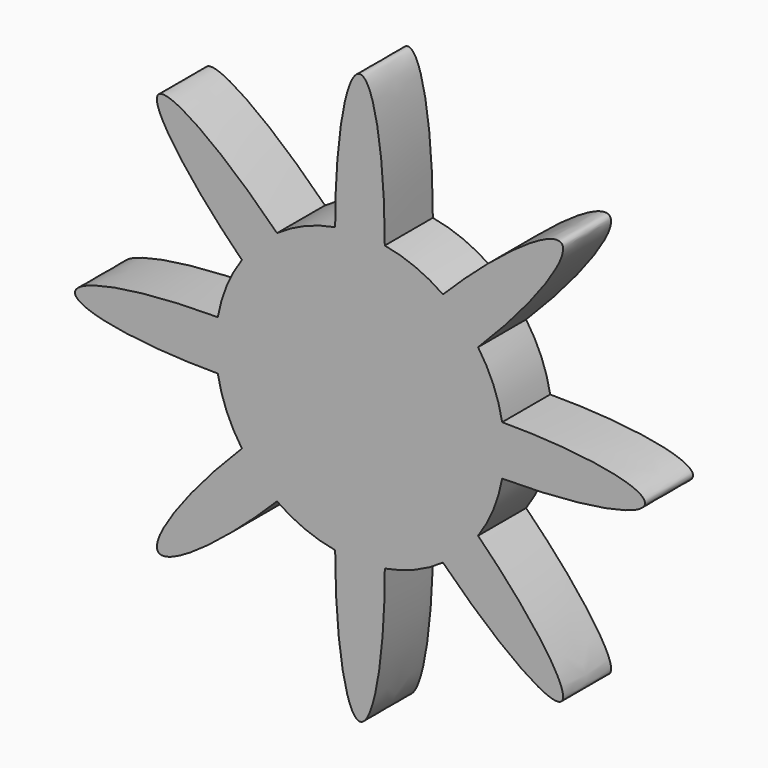
from build123d import *

# Parameters (mm, degrees)
F1_DEPTH = 7.62


with BuildPart() as f1:
    # F0 (on Front) → F1 (new body)
    with BuildSketch(Plane.XZ):
        with BuildLine():
            add(Edge.make_bspline(
                [(3.1483873372, 18.0405237528), (3.1972044979, 36.1708849669), (0, 36.1708849669), (-3.1972044979, 36.1708849669), (-3.1483873372, 18.0405237528)],
                knots=[4.6971196857, 4.6971196857, 4.6971196857, 6.2831853072, 6.2831853072, 7.8692509287, 7.8692509287, 7.8692509287], degree=2, weights=[1, 0.701687715, 1, 0.701687715, 1]))
            ThreePointArc((-3.1483873372, 18.0405237528), (-7.0081534886, 16.9191791993), (-10.5303306458, 14.9828227177))
            add(Edge.make_bspline(
                [(-10.5303306458, 14.9828227177), (-23.3159130603, 27.8374430229), (-25.5766780416, 25.5766780416), (-27.8374430229, 23.3159130603), (-14.9828227177, 10.5303306458)],
                knots=[4.6971196857, 4.6971196857, 4.6971196857, 6.2831853072, 6.2831853072, 7.8692509287, 7.8692509287, 7.8692509287], degree=2, weights=[1, 0.701687715, 1, 0.701687715, 1]))
            ThreePointArc((-14.9828227177, 10.5303306458), (-16.9191791993, 7.0081534886), (-18.0405237528, 3.1483873372))
            add(Edge.make_bspline(
                [(-18.0405237528, 3.1483873372), (-36.1708849669, 3.1972044979), (-36.1708849669, 0), (-36.1708849669, -3.1972044979), (-18.0405237528, -3.1483873372)],
                knots=[4.6971196857, 4.6971196857, 4.6971196857, 6.2831853072, 6.2831853072, 7.8692509287, 7.8692509287, 7.8692509287], degree=2, weights=[1, 0.701687715, 1, 0.701687715, 1]))
            ThreePointArc((-18.0405237528, -3.1483873372), (-16.9191791993, -7.0081534886), (-14.9828227177, -10.5303306458))
            add(Edge.make_bspline(
                [(-14.9828227177, -10.5303306458), (-27.8374430229, -23.3159130603), (-25.5766780416, -25.5766780416), (-23.3159130603, -27.8374430229), (-10.5303306458, -14.9828227177)],
                knots=[4.6971196857, 4.6971196857, 4.6971196857, 6.2831853072, 6.2831853072, 7.8692509287, 7.8692509287, 7.8692509287], degree=2, weights=[1, 0.701687715, 1, 0.701687715, 1]))
            ThreePointArc((-10.5303306458, -14.9828227177), (-7.0081534886, -16.9191791993), (-3.1483873372, -18.0405237528))
            add(Edge.make_bspline(
                [(-3.1483873372, -18.0405237528), (-3.1972044979, -36.1708849669), (0, -36.1708849669), (3.1972044979, -36.1708849669), (3.1483873372, -18.0405237528)],
                knots=[4.6971196857, 4.6971196857, 4.6971196857, 6.2831853072, 6.2831853072, 7.8692509287, 7.8692509287, 7.8692509287], degree=2, weights=[1, 0.701687715, 1, 0.701687715, 1]))
            ThreePointArc((3.1483873372, -18.0405237528), (7.0081534886, -16.9191791993), (10.5303306458, -14.9828227177))
            add(Edge.make_bspline(
                [(10.5303306458, -14.9828227177), (23.3159130603, -27.8374430229), (25.5766780416, -25.5766780416), (27.8374430229, -23.3159130603), (14.9828227177, -10.5303306458)],
                knots=[4.6971196857, 4.6971196857, 4.6971196857, 6.2831853072, 6.2831853072, 7.8692509287, 7.8692509287, 7.8692509287], degree=2, weights=[1, 0.701687715, 1, 0.701687715, 1]))
            ThreePointArc((14.9828227177, -10.5303306458), (16.9191791993, -7.0081534886), (18.0405237528, -3.1483873372))
            add(Edge.make_bspline(
                [(18.0405237528, -3.1483873372), (36.1708849669, -3.1972044979), (36.1708849669, 0), (36.1708849669, 3.1972044979), (18.0405237528, 3.1483873372)],
                knots=[4.6971196857, 4.6971196857, 4.6971196857, 6.2831853072, 6.2831853072, 7.8692509287, 7.8692509287, 7.8692509287], degree=2, weights=[1, 0.701687715, 1, 0.701687715, 1]))
            ThreePointArc((18.0405237528, 3.1483873372), (16.9191791993, 7.0081534886), (14.9828227177, 10.5303306458))
            add(Edge.make_bspline(
                [(14.9828227177, 10.5303306458), (27.8374430229, 23.3159130603), (25.5766780416, 25.5766780416), (23.3159130603, 27.8374430229), (10.5303306458, 14.9828227177)],
                knots=[4.6971196857, 4.6971196857, 4.6971196857, 6.2831853072, 6.2831853072, 7.8692509287, 7.8692509287, 7.8692509287], degree=2, weights=[1, 0.701687715, 1, 0.701687715, 1]))
            ThreePointArc((10.5303306458, 14.9828227177), (7.0081534886, 16.9191791993), (3.1483873372, 18.0405237528))
        make_face()
    extrude(amount=F1_DEPTH)


solid = f1.part
